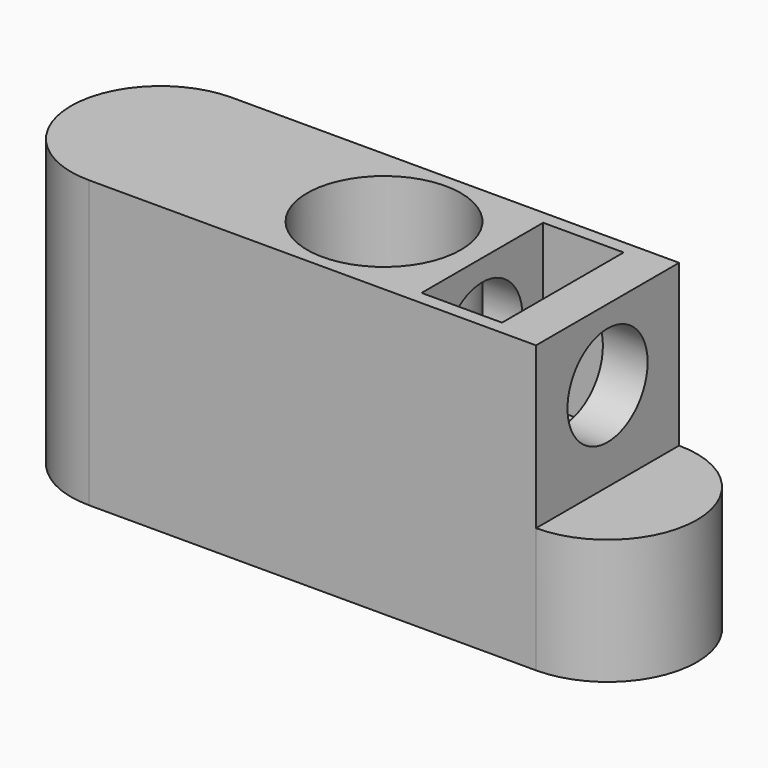
from build123d import *

# Parameters (mm, degrees)
SKETCH_R        = 3.8
PAD_DEPTH       = 3
PAD001_DEPTH    = 13
SKETCH002_R     = 4.3
POCKET_DEPTH    = 16.001
POCKET001_DEPTH = 9
SKETCH004_R     = 2.8
POCKET002_DEPTH = 20.001


with BuildPart() as part:
    # Sketch → Pad (new body)
    with BuildSketch(Plane.XY):
        with BuildLine():
            ThreePointArc((0, 5), (-5, 0), (0, -5))
            Line((0, -5), (25, -5))
            ThreePointArc((25, -5), (30, 0), (25, 5))
            Line((0, 5), (25, 5))
        make_face()
        Circle(SKETCH_R, mode=Mode.SUBTRACT)
        with Locations((25, 0)):
            Circle(SKETCH_R, mode=Mode.SUBTRACT)
    extrude(amount=PAD_DEPTH)

    # Sketch001 (on Face8 of Pad) → Pad001 (join)
    with BuildSketch(Plane.XY.offset(3)):
        with BuildLine():
            ThreePointArc((0, 5), (-5, 0), (0, -5))
            Line((0, -5), (25, -5))
            ThreePointArc((25, -5), (30, 0), (25, 5))
            Line((0, 5), (25, 5))
        make_face()
    extrude(amount=PAD001_DEPTH)

    # Sketch002 (on Face14 of Pad001) → Pocket (cut, through all)
    with BuildSketch(Plane.XY.offset(16)):
        with Locations((12.5, 0)):
            Circle(SKETCH002_R)
    extrude(amount=-POCKET_DEPTH, mode=Mode.SUBTRACT)

    # Sketch003 (on Face13 of Pocket) → Pocket001 (cut)
    with BuildSketch(Plane.XY.offset(16)):
        Polygon((18, 4.25), (22.5, 4.25), (22.5, -4.25), (18, -4.25), (18, 0), align=None)
        with BuildLine():
            Line((25, 0), (25, 5))
            ThreePointArc((25, -5), (30, 0), (25, 5))
            Line((25, -5), (25, 0))
        make_face()
    extrude(amount=-POCKET001_DEPTH, mode=Mode.SUBTRACT)

    # Sketch004 → Pocket002 (cut, through all)
    with BuildSketch(Plane.YZ.offset(10)):
        with Locations((0, 12)):
            Circle(SKETCH004_R)
    extrude(amount=POCKET002_DEPTH, mode=Mode.SUBTRACT)


solid = part.part
